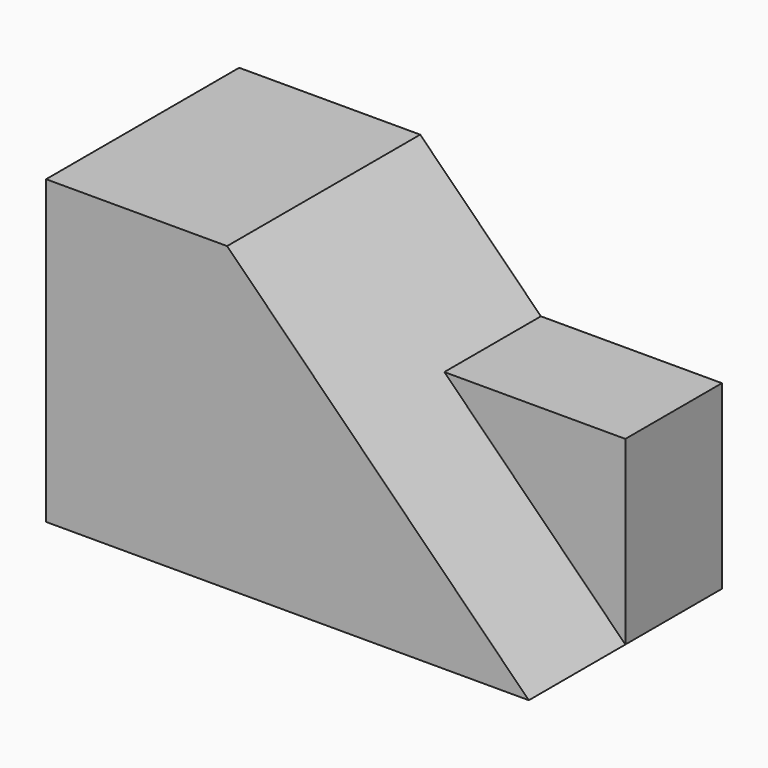
from build123d import *

# Parameters (mm, degrees)
F0_W     = 50.8
F0_H     = 31.75
F1_DEPTH = 25.4
F3_DEPTH = 12.7
F5_DEPTH = 25.4


with BuildPart() as f1:
    # F0 (on Front) → F1 (new body)
    with BuildSketch(Plane.XZ):
        with Locations((25.4, 15.875)):
            Rectangle(F0_W, F0_H)
    extrude(amount=F1_DEPTH)

    # F2 (on face) → F3 (cut)
    with BuildSketch(Plane.XZ.offset(25.4)):
        Polygon((50.8, 31.75), (19.05, 31.75), (50.8, 0), align=None)
    extrude(amount=-F3_DEPTH, mode=Mode.SUBTRACT)

    # F4 (on face) → F5 (cut)
    with BuildSketch(Plane.XZ.offset(12.7)):
        Polygon((19.05, 31.75), (31.75, 19.05), (50.8, 19.05), (50.8, 31.75), align=None)
        Polygon((19.05, 31.75), (31.75, 19.05), (50.8, 19.05), (50.8, 31.75), align=None)
    extrude(amount=-F5_DEPTH, mode=Mode.SUBTRACT)


solid = f1.part
